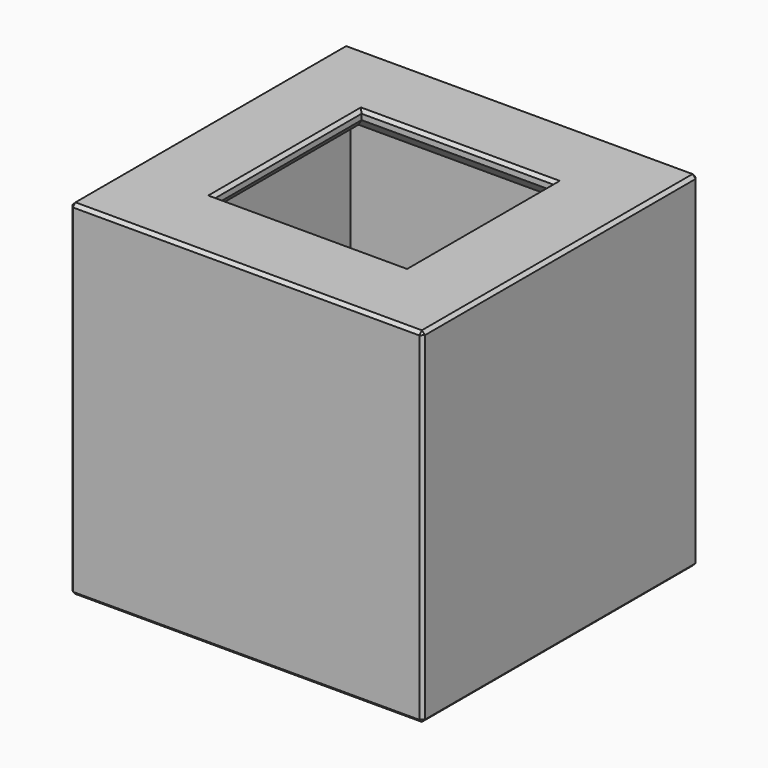
from build123d import *

# Parameters (mm, degrees)
SKETCH006_W     = 44
SKETCH006_H     = 43
SKETCH006_W_2   = 24
SKETCH006_H_2   = 23
PAD007_DEPTH    = 3
SKETCH007_W     = 44
SKETCH007_H     = 43
SKETCH007_W_2   = 38
SKETCH007_H_2   = 37
PAD008_DEPTH    = 40
CHAMFER007_SIZE = 1.9
CHAMFER008_SIZE = 0.4


with BuildPart() as part:
    # Sketch006 → Pad007 (new body)
    with BuildSketch(Plane.XY):
        Rectangle(SKETCH006_W, SKETCH006_H)
        Rectangle(SKETCH006_W_2, SKETCH006_H_2, mode=Mode.SUBTRACT)
    extrude(amount=PAD007_DEPTH)

    # Sketch007 (on Face9 of Pad007) → Pad008 (join)
    with BuildSketch(Plane(origin=(0, 0, 0), x_dir=(1, 0, 0), z_dir=(0, 0, -1))):
        Rectangle(SKETCH007_W, SKETCH007_H)
        Rectangle(SKETCH007_W_2, SKETCH007_H_2, mode=Mode.SUBTRACT)
    extrude(amount=PAD008_DEPTH)

    # Chamfer007
    chamfer007_edges = [part.edges().sort_by_distance(p)[0] for p in [
        (0, -11.5, 0),
        (12, 0, 0),
        (0, 11.5, 0),
        (-12, 0, 0),
    ]]
    chamfer(chamfer007_edges, length=CHAMFER007_SIZE)

    # Chamfer008
    chamfer008_edges = [part.edges().sort_by_distance(p)[0] for p in [
        (-22, 0, -40),
        (0, 21.5, -40),
        (22, 0, -40),
        (0, -21.5, -40),
        (-19, 0, -40),
        (0, 18.5, -40),
        (19, 0, -40),
        (0, -18.5, -40),
        (22, 21.5, -18.5),
        (-22, 21.5, -18.5),
        (0, 21.5, 3),
        (-22, 0, 3),
        (0, -21.5, 3),
        (22, 0, 3),
        (-12, 0, 3),
        (0, -11.5, 3),
        (12, 0, 3),
        (0, 11.5, 3),
        (-22, -21.5, -18.5),
        (22, -21.5, -18.5),
    ]]
    chamfer(chamfer008_edges, length=CHAMFER008_SIZE)


solid = part.part
